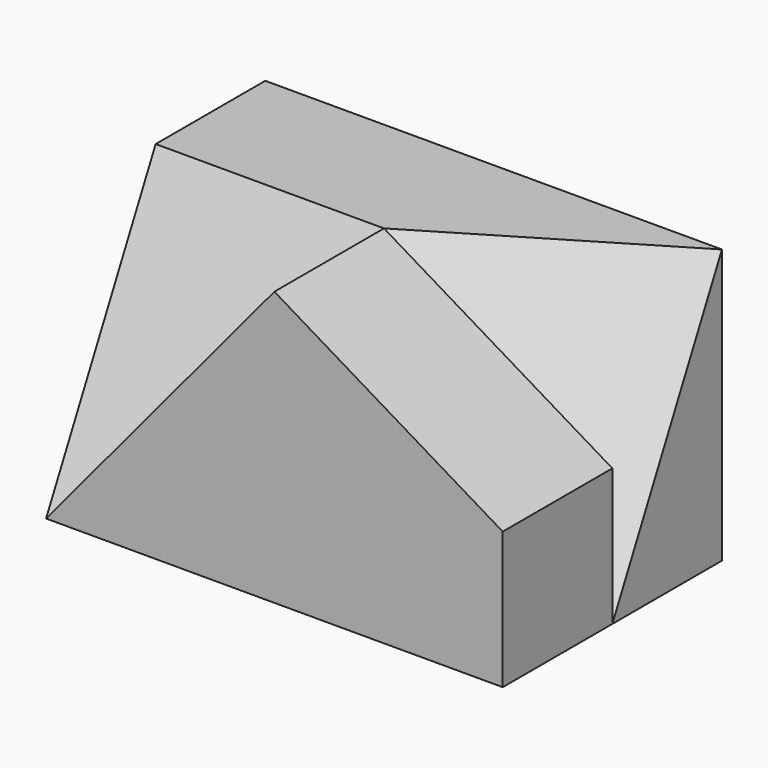
from build123d import *

# Parameters (mm, degrees)
F0_W     = 15
F0_H     = 30
F1_DEPTH = 25
F2_DEPTH = 50
F5_DEPTH = 23.6443121872
F7_DEPTH = 15


with BuildPart() as f1:
    # F0 (on Right) → F1 (new body)
    with BuildSketch(Plane.YZ):
        with Locations((22.5, 15)):
            Rectangle(F0_W, F0_H)
        Polygon((15, 30), (0, 0), (15, 0), align=None)
    extrude(amount=F1_DEPTH)

    # F0 (on Right) → F2 (join)
    with BuildSketch(Plane.YZ):
        with Locations((22.5, 15)):
            Rectangle(F0_W, F0_H)
    extrude(amount=F2_DEPTH)

    # F4 (on 3pt) → F5 (cut, through all)
    with BuildSketch(Plane(origin=(5.5900621118, -9.3167701863, 4.6583850932), x_dir=(-0.8811342211, -0.4229444261, 0.2114722131), z_dir=(-0.4728662437, 0.7881104062, -0.3940552031))):
        Polygon((-50.4008774448, 6.7082039325), (-22.0283555266, 33.5410196625), (-50.4008774448, 40.249223595), align=None)
    extrude(amount=-F5_DEPTH, mode=Mode.SUBTRACT)

    # F6 (on Front) → F7 (join)
    with BuildSketch(Plane.XZ):
        Polygon((25, 0), (50, 0), (50, 15), (25, 30), (0, 0), align=None)
    extrude(amount=-F7_DEPTH)


solid = f1.part
